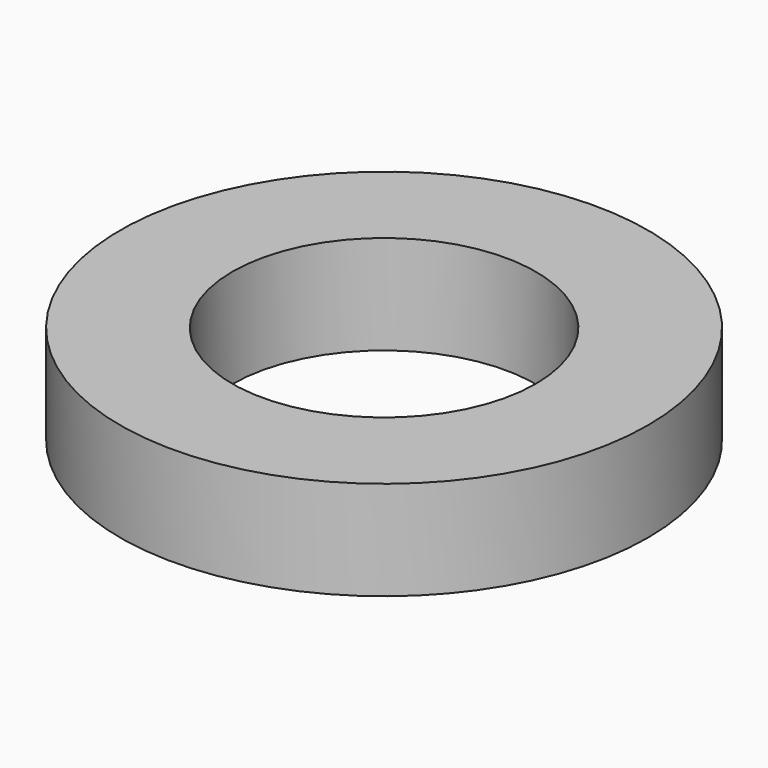
from build123d import *

# Parameters (mm, degrees)
SKETCH_R     = 4
PAD_DEPTH    = 1.5
SKETCH001_R  = 2.3
POCKET_DEPTH = 1.501


with BuildPart() as part:
    # Sketch → Pad (new body)
    with BuildSketch(Plane.XY):
        Circle(SKETCH_R)
    extrude(amount=PAD_DEPTH)

    # Sketch001 (on Face3 of Pad) → Pocket (cut, through all)
    with BuildSketch(Plane.XY.offset(1.5)):
        Circle(SKETCH001_R)
    extrude(amount=-POCKET_DEPTH, mode=Mode.SUBTRACT)


solid = part.part
